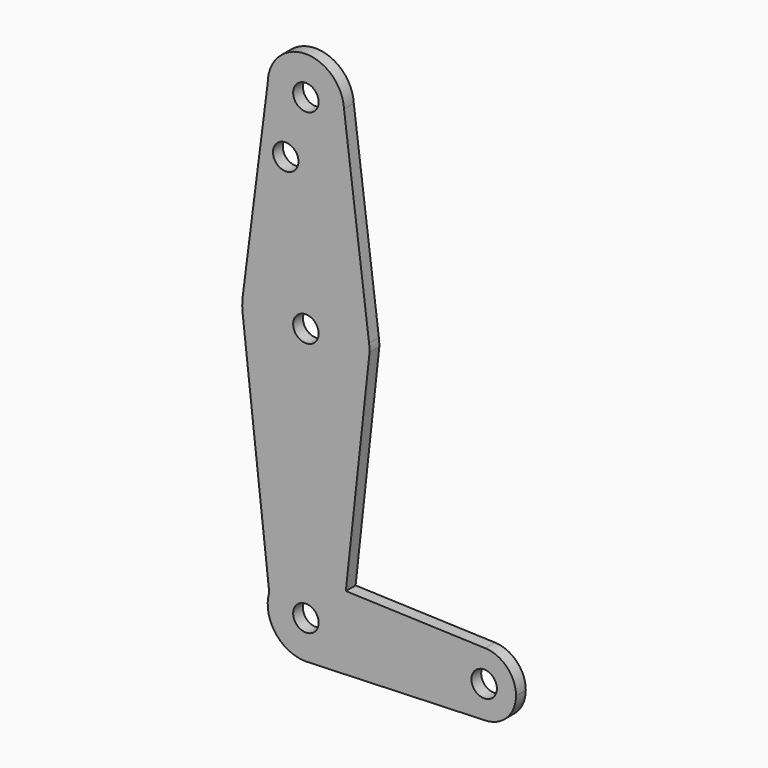
from build123d import *

# Parameters (mm, degrees)
F0_R     = 3.175
F1_DEPTH = 3.048


with BuildPart() as f1:
    # F0 (on Front) → F1 (new body)
    with BuildSketch(Plane.XZ):
        with BuildLine():
            ThreePointArc((9.5102028503, 114.8307245366), (9.5213000643, 114.5654653895), (9.5250000939, 114.3))
            ThreePointArc((9.5250000939, 114.3), (-0.0114906805, 104.7750068372), (-9.5249723698, 114.3229813443))
            Line((-9.5249723698, 114.3229813443), (-15.747574407, 65.5073677534))
            ThreePointArc((-15.747574407, 65.5073677534), (0.0079100828, 79.3749980293), (15.7495670212, 65.4916735785))
            Line((15.7495670212, 65.4916735785), (9.5102028503, 114.8307245366))
        make_face()
        with Locations((-5.025569471, 99.6008760627)):
            Circle(F0_R, mode=Mode.SUBTRACT)
        with BuildLine():
            ThreePointArc((15.875, 63.5), (15.8436107227, 64.4978097358), (15.7495670212, 65.4916735785))
            ThreePointArc((15.7495670212, 65.4916735785), (0.0079100828, 79.3749980293), (-15.747574407, 65.5073677534))
            ThreePointArc((-15.747574407, 65.5073677534), (-15.8699038317, 63.9022155787), (-15.8290429523, 62.292927419))
            Line((-15.8290429523, 62.292927419), (-15.7035347362, 61.1730660111))
            ThreePointArc((-15.7035347362, 61.1730660111), (-0.5546795069, 47.6346933328), (15.5026829919, 60.0820408059))
            Line((15.5026829919, 60.0820408059), (15.875, 63.5))
        make_face()
        with Locations((0, 63.5)):
            Circle(F0_R, mode=Mode.SUBTRACT)
        with BuildLine():
            Line((9.9569104682, 9.1705224667), (15.5026829919, 60.0820408059))
            ThreePointArc((15.5026829919, 60.0820408059), (-0.5546795069, 47.6346933328), (-15.7035347362, 61.1730660111))
            Line((-15.7035347362, 61.1730660111), (-9.1457913245, 2.6608506249))
            ThreePointArc((-9.1457913245, 2.6608506249), (-5.7175616655, 7.6180780779), (0, 9.525))
            ThreePointArc((0, 9.525), (0.3388863295, 9.5189695375), (0.6773435479, 9.500885786))
            Line((0.6773435479, 9.500885786), (9.9569104682, 9.1705224667))
        make_face()
        with BuildLine():
            ThreePointArc((0, 9.525), (-5.7175616655, 7.6180780779), (-9.1457913245, 2.6608506249))
            ThreePointArc((-9.1457913245, 2.6608506249), (-7.6180780779, -5.7175616655), (0, -9.525))
            Line((0, -9.525), (0.6773435479, -9.500885786))
            ThreePointArc((0.6773435479, -9.500885786), (6.9705567315, -6.4912990883), (9.525, 0))
            ThreePointArc((9.525, 0), (9.4481631595, 1.207409587), (9.2188923022, 2.395339166))
            ThreePointArc((9.2188923022, 2.395339166), (6.0914751245, 7.3225375252), (0.6773435479, 9.500885786))
            Line((0.6773435479, 9.500885786), (0, 9.525))
        make_face()
        Circle(F0_R, mode=Mode.SUBTRACT)
        with BuildLine():
            Line((44.7324052746, 7.9324746146), (9.9569104682, 9.1705224667))
            Line((9.9569104682, 9.1705224667), (9.2188923022, 2.395339166))
            ThreePointArc((9.2188923022, 2.395339166), (9.4481631595, 1.207409587), (9.525, 0))
            ThreePointArc((9.525, 0), (6.9705567315, -6.4912990883), (0.6773435479, -9.500885786))
            Line((0.6773435479, -9.500885786), (44.7324052746, -7.9324746146))
            ThreePointArc((44.7324052746, -7.9324746146), (36.5125, 0), (44.7324052746, 7.9324746146))
        make_face()
        with BuildLine():
            Line((9.2188923022, 2.395339166), (9.9569104682, 9.1705224667))
            Line((9.9569104682, 9.1705224667), (0.6773435479, 9.500885786))
            ThreePointArc((0.6773435479, 9.500885786), (6.0914751245, 7.3225375252), (9.2188923022, 2.395339166))
        make_face()
        with BuildLine():
            ThreePointArc((52.3875, 0), (50.1616327839, 5.5119104847), (44.7324052746, 7.9324746146))
            ThreePointArc((44.7324052746, 7.9324746146), (36.5125, 0), (44.7324052746, -7.9324746146))
            ThreePointArc((44.7324052746, -7.9324746146), (50.1616327839, -5.5119104847), (52.3875, 0))
        make_face()
        with Locations((44.45, 0)):
            Circle(F0_R, mode=Mode.SUBTRACT)
        with BuildLine():
            ThreePointArc((-9.5249723698, 114.3229813443), (-0.0114906805, 104.7750068372), (9.5250000939, 114.3))
            ThreePointArc((9.5250000939, 114.3), (9.5213000643, 114.5654653895), (9.5102028503, 114.8307245366))
            ThreePointArc((9.5102028503, 114.8307245366), (-0.2539789795, 123.8216133857), (-9.5249723698, 114.3229813443))
        make_face()
        with Locations((0, 114.3)):
            Circle(F0_R, mode=Mode.SUBTRACT)
    extrude(amount=F1_DEPTH)


solid = f1.part
